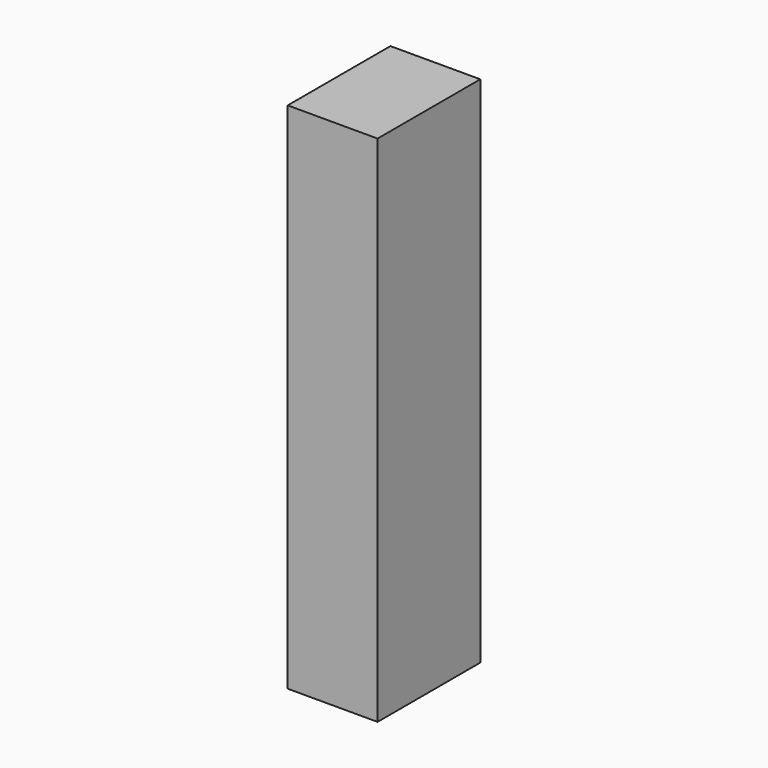
from build123d import *

# Parameters (mm, degrees)
F0_W     = 45.8271801472
F0_H     = 53.0440360308
F1_DEPTH = 350
F2_DEPTH = 500
F3_DEPTH = 2000
F4_T     = -16


with BuildPart() as f1:
    # F0 (on Right) → F1 (new body)
    with BuildSketch(Plane.YZ):
        with Locations((-22.9135900736, 26.5220180154)):
            Rectangle(F0_W, F0_H)
    extrude(amount=-F1_DEPTH)

    # F2 (add): a face of the model
    f2_faces = [f1.faces().sort_by_distance(p)[0] for p in [
        (-175, 0, 26.5220180154),
    ]]
    extrude(f2_faces, amount=-F2_DEPTH)

    # F3 (add): a face of the model
    f3_faces = [f1.faces().sort_by_distance(p)[0] for p in [
        (-175, -250, 0),
    ]]
    extrude(f3_faces, amount=-F3_DEPTH)

    # F4
    f4_openings = [f1.faces().sort_by_distance(p)[0] for p in [
        (-350, -250, 1000),
    ]]
    offset(amount=F4_T, openings=f4_openings)


solid = f1.part
